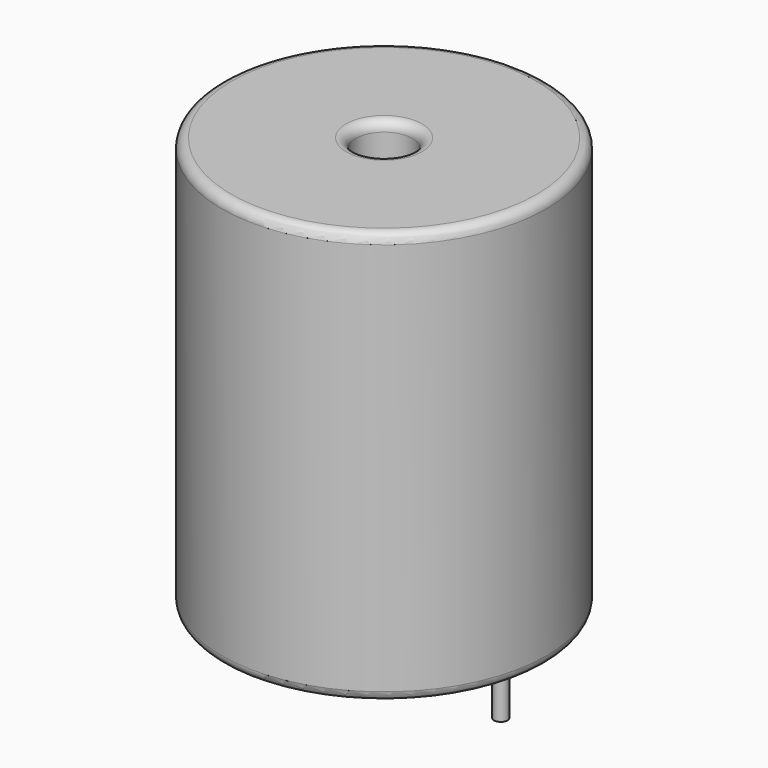
from build123d import *

# Parameters (mm, degrees)
SKETCH_R          = 8.4
SKETCH_R_2        = 1.46
PAD_DEPTH         = 21.34
FILLET_R          = 0.5
SKETCH001_R       = 0.35
PAD001_DEPTH      = 10.67
PAD001_DEPTH_BACK = 3.5


with BuildPart() as fillet_body:
    # Sketch → Pad (new body)
    with BuildSketch(Plane.XY.offset(0.1)):
        with Locations((6.035, 0)):
            Circle(SKETCH_R)
        with Locations((6.035, 0)):
            Circle(SKETCH_R_2, mode=Mode.SUBTRACT)
    extrude(amount=PAD_DEPTH)

    # Fillet
    fillet_edges = [fillet_body.edges().sort_by_distance(p)[0] for p in [
        (4.575, 0, 21.44),
        (-2.365, 0, 21.44),
        (-2.365, 0, 0.1),
    ]]
    fillet(fillet_edges, radius=FILLET_R)


with BuildPart() as obj1:
    # Sketch001 → Pad001 (new body, two sides)
    with BuildSketch(Plane.XY.offset(0.5)) as pad001_sk:
        Circle(SKETCH001_R)
        with Locations((12.07, 0)):
            Circle(SKETCH001_R)
    extrude(amount=PAD001_DEPTH)
    extrude(pad001_sk.sketch, amount=-PAD001_DEPTH_BACK)

    # obj1: union Fillet body
    add(fillet_body.part)


solid = obj1.part
